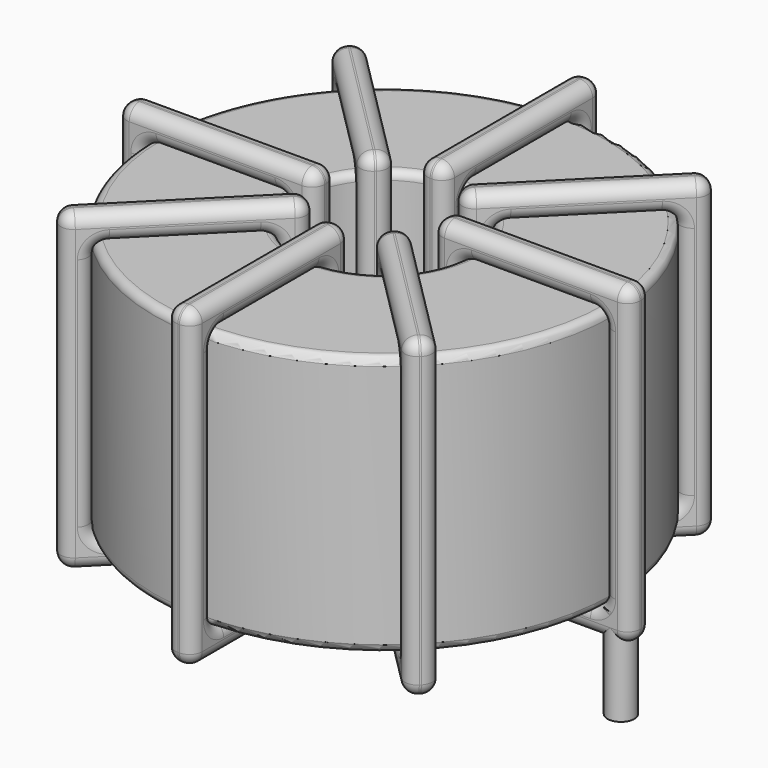
from build123d import *

# Parameters (mm, degrees)
SKETCH001_R       = 0.85
PAD001_DEPTH      = 0.85
PAD001_DEPTH_BACK = 5.2
SKETCH_R          = 14.55
SKETCH_R_2        = 5.416667
PAD_DEPTH         = 16.5
FILLET_R          = 0.5
SKETCH003_W       = 12.533333
SKETCH003_H       = 19.9
SKETCH003_W_2     = 9.133333
SKETCH003_H_2     = 16.5
PAD002_DEPTH      = 0.85
FILLET001_R       = 0.799
SKETCH004_W       = 12.533333
SKETCH004_H       = 19.9
SKETCH004_W_2     = 9.133333
SKETCH004_H_2     = 16.5
PAD003_DEPTH      = 0.85
FILLET002_R       = 0.799
SKETCH005_W       = 12.533333
SKETCH005_H       = 19.9
SKETCH005_W_2     = 9.133333
SKETCH005_H_2     = 16.5
PAD004_DEPTH      = 0.85
FILLET003_R       = 0.799
SKETCH006_W       = 12.533333
SKETCH006_H       = 19.9
SKETCH006_W_2     = 9.133333
SKETCH006_H_2     = 16.5
PAD005_DEPTH      = 0.85
FILLET004_R       = 0.799


with BuildPart() as pad001:
    # Sketch001 → Pad001 (new body, two sides)
    with BuildSketch(Plane.XY.offset(1.35)) as pad001_sk:
        Circle(SKETCH001_R)
        with Locations((30, 0)):
            Circle(SKETCH001_R)
    extrude(amount=PAD001_DEPTH)
    extrude(pad001_sk.sketch, amount=-PAD001_DEPTH_BACK)


with BuildPart() as fillet_body:
    # Sketch → Pad (new body)
    with BuildSketch(Plane.XY.offset(2.2)):
        with Locations((15, 0)):
            Circle(SKETCH_R)
        with Locations((15, 0)):
            Circle(SKETCH_R_2, mode=Mode.SUBTRACT)
    extrude(amount=PAD_DEPTH)

    # Fillet
    fillet_edges = [fillet_body.edges().sort_by_distance(p)[0] for p in [
        (9.583333, 0, 18.7),
        (0.45, 0, 18.7),
        (0.45, 0, 2.2),
    ]]
    fillet(fillet_edges, radius=FILLET_R)


with BuildPart() as fillet001:
    # Sketch003 → Pad002 (new body, symmetric)
    with BuildSketch(Plane(origin=(15, 0, 0), x_dir=(1, 0, 0), z_dir=(0, -1, 0))):
        with Locations((-9.983334, 10.45)):
            Rectangle(SKETCH003_W, SKETCH003_H)
        with Locations((-9.983333, 10.45)):
            Rectangle(SKETCH003_W_2, SKETCH003_H_2, mode=Mode.SUBTRACT)
        with Locations((9.983334, 10.45)):
            Rectangle(SKETCH003_W, SKETCH003_H)
        with Locations((9.983333, 10.45)):
            Rectangle(SKETCH003_W_2, SKETCH003_H_2, mode=Mode.SUBTRACT)
    extrude(amount=PAD002_DEPTH, both=True)

    # Fillet001
    fillet001_edges = [fillet001.edges().sort_by_distance(p)[0] for p in [
        (9.583333, 0, 18.7),
        (9.583333, 0, 2.2),
        (9.583333, 0.85, 10.45),
        (9.583333, -0.85, 10.45),
        (-1.25, 0, 20.4),
        (11.283333, 0, 20.4),
        (5.016667, 0.85, 20.4),
        (5.016667, -0.85, 20.4),
        (11.283333, 0, 0.5),
        (11.283333, 0.85, 10.45),
        (11.283333, -0.85, 10.45),
        (20.416667, 0, 18.7),
        (29.55, 0, 18.7),
        (24.983333, 0.85, 18.7),
        (24.983333, -0.85, 18.7),
        (29.55, 0, 2.2),
        (29.55, 0.85, 10.45),
        (29.55, -0.85, 10.45),
        (18.716667, 0, 20.4),
        (31.25, 0, 20.4),
        (24.983333, 0.85, 20.4),
        (24.983333, -0.85, 20.4),
        (31.25, 0, 0.5),
        (31.25, 0.85, 10.45),
        (31.25, -0.85, 10.45),
        (0.45, 0, 18.7),
        (5.016667, 0.85, 18.7),
        (5.016667, -0.85, 18.7),
        (20.416667, 0, 2.2),
        (20.416667, 0.85, 10.45),
        (20.416667, -0.85, 10.45),
        (24.983333, 0.85, 2.2),
        (24.983333, -0.85, 2.2),
        (18.716667, 0, 0.5),
        (24.983333, 0.85, 0.5),
        (24.983333, -0.85, 0.5),
        (18.716667, 0.85, 10.45),
        (18.716667, -0.85, 10.45),
        (-1.25, 0, 0.5),
        (5.016667, 0.85, 0.5),
        (5.016667, -0.85, 0.5),
        (-1.25, 0.85, 10.45),
        (-1.25, -0.85, 10.45),
        (0.45, 0, 2.2),
        (0.45, 0.85, 10.45),
        (0.45, -0.85, 10.45),
        (5.016667, 0.85, 2.2),
        (5.016667, -0.85, 2.2),
    ]]
    fillet(fillet001_edges, radius=FILLET001_R)


with BuildPart() as fillet002:
    # Sketch004 → Pad003 (new body, symmetric)
    with BuildSketch(Plane(origin=(15, 0, 0), x_dir=(0.707107, 0.707107, 0), z_dir=(0.707107, -0.707107, 0))):
        with Locations((-9.983334, 10.45)):
            Rectangle(SKETCH004_W, SKETCH004_H)
        with Locations((-9.983333, 10.45)):
            Rectangle(SKETCH004_W_2, SKETCH004_H_2, mode=Mode.SUBTRACT)
        with Locations((9.983334, 10.45)):
            Rectangle(SKETCH004_W, SKETCH004_H)
        with Locations((9.983333, 10.45)):
            Rectangle(SKETCH004_W_2, SKETCH004_H_2, mode=Mode.SUBTRACT)
    extrude(amount=PAD003_DEPTH, both=True)

    # Fillet002
    fillet002_edges = [fillet002.edges().sort_by_distance(p)[0] for p in [
        (11.169838, -3.830162, 18.7),
        (11.169838, -3.830162, 2.2),
        (10.568798, -3.229121, 10.45),
        (11.770879, -4.431202, 10.45),
        (3.509515, -11.490485, 20.4),
        (3.509515, -11.490485, 0.5),
        (2.908474, -10.889444, 10.45),
        (4.110556, -12.091526, 10.45),
        (12.37192, -2.62808, 20.4),
        (7.339677, -6.458242, 0.5),
        (8.541758, -7.660323, 0.5),
        (18.830162, 3.830162, 2.2),
        (18.830162, 3.830162, 18.7),
        (18.229121, 4.431202, 10.45),
        (19.431202, 3.229121, 10.45),
        (25.288404, 10.288404, 2.2),
        (21.458242, 7.660323, 2.2),
        (22.660323, 6.458242, 2.2),
        (17.62808, 2.62808, 0.5),
        (17.62808, 2.62808, 20.4),
        (17.027039, 3.229121, 10.45),
        (18.229121, 2.027039, 10.45),
        (26.490485, 11.490485, 0.5),
        (21.458242, 7.660323, 0.5),
        (22.660323, 6.458242, 0.5),
        (4.711596, -10.288404, 18.7),
        (7.339677, -6.458242, 18.7),
        (8.541758, -7.660323, 18.7),
        (25.288404, 10.288404, 18.7),
        (21.458242, 7.660323, 18.7),
        (22.660323, 6.458242, 18.7),
        (24.687363, 10.889444, 10.45),
        (25.889444, 9.687363, 10.45),
        (26.490485, 11.490485, 20.4),
        (25.889444, 12.091526, 10.45),
        (27.091526, 10.889444, 10.45),
        (21.458242, 7.660323, 20.4),
        (22.660323, 6.458242, 20.4),
        (12.37192, -2.62808, 0.5),
        (11.770879, -2.027039, 10.45),
        (12.972961, -3.229121, 10.45),
        (7.339677, -6.458242, 20.4),
        (8.541758, -7.660323, 20.4),
        (4.711596, -10.288404, 2.2),
        (4.110556, -9.687363, 10.45),
        (5.312637, -10.889444, 10.45),
        (7.339677, -6.458242, 2.2),
        (8.541758, -7.660323, 2.2),
    ]]
    fillet(fillet002_edges, radius=FILLET002_R)


with BuildPart() as fillet003:
    # Sketch005 → Pad004 (new body, symmetric)
    with BuildSketch(Plane(origin=(15, 0, 0), x_dir=(0.707107, -0.707107, 0), z_dir=(-0.707107, -0.707107, 0))):
        with Locations((-9.983334, 10.45)):
            Rectangle(SKETCH005_W, SKETCH005_H)
        with Locations((-9.983333, 10.45)):
            Rectangle(SKETCH005_W_2, SKETCH005_H_2, mode=Mode.SUBTRACT)
        with Locations((9.983334, 10.45)):
            Rectangle(SKETCH005_W, SKETCH005_H)
        with Locations((9.983333, 10.45)):
            Rectangle(SKETCH005_W_2, SKETCH005_H_2, mode=Mode.SUBTRACT)
    extrude(amount=PAD004_DEPTH, both=True)

    # Fillet003
    fillet003_edges = [fillet003.edges().sort_by_distance(p)[0] for p in [
        (11.169838, 3.830162, 18.7),
        (11.169838, 3.830162, 2.2),
        (11.770879, 4.431202, 10.45),
        (10.568798, 3.229121, 10.45),
        (3.509515, 11.490485, 20.4),
        (12.37192, 2.62808, 20.4),
        (8.541758, 7.660323, 20.4),
        (7.339677, 6.458242, 20.4),
        (12.37192, 2.62808, 0.5),
        (12.972961, 3.229121, 10.45),
        (11.770879, 2.027039, 10.45),
        (18.830162, -3.830162, 18.7),
        (25.288404, -10.288404, 18.7),
        (22.660323, -6.458242, 18.7),
        (21.458242, -7.660323, 18.7),
        (25.288404, -10.288404, 2.2),
        (25.889444, -9.687363, 10.45),
        (24.687363, -10.889444, 10.45),
        (17.62808, -2.62808, 20.4),
        (26.490485, -11.490485, 20.4),
        (22.660323, -6.458242, 20.4),
        (21.458242, -7.660323, 20.4),
        (26.490485, -11.490485, 0.5),
        (27.091526, -10.889444, 10.45),
        (25.889444, -12.091526, 10.45),
        (4.711596, 10.288404, 18.7),
        (8.541758, 7.660323, 18.7),
        (7.339677, 6.458242, 18.7),
        (18.830162, -3.830162, 2.2),
        (19.431202, -3.229121, 10.45),
        (18.229121, -4.431202, 10.45),
        (22.660323, -6.458242, 2.2),
        (21.458242, -7.660323, 2.2),
        (17.62808, -2.62808, 0.5),
        (22.660323, -6.458242, 0.5),
        (21.458242, -7.660323, 0.5),
        (18.229121, -2.027039, 10.45),
        (17.027039, -3.229121, 10.45),
        (3.509515, 11.490485, 0.5),
        (8.541758, 7.660323, 0.5),
        (7.339677, 6.458242, 0.5),
        (4.110556, 12.091526, 10.45),
        (2.908474, 10.889444, 10.45),
        (4.711596, 10.288404, 2.2),
        (5.312637, 10.889444, 10.45),
        (4.110556, 9.687363, 10.45),
        (8.541758, 7.660323, 2.2),
        (7.339677, 6.458242, 2.2),
    ]]
    fillet(fillet003_edges, radius=FILLET003_R)


with BuildPart() as fillet004:
    # Sketch006 → Pad005 (new body, symmetric)
    with BuildSketch(Plane.YZ.offset(15)):
        with Locations((-9.983334, 10.45)):
            Rectangle(SKETCH006_W, SKETCH006_H)
        with Locations((-9.983333, 10.45)):
            Rectangle(SKETCH006_W_2, SKETCH006_H_2, mode=Mode.SUBTRACT)
        with Locations((9.983334, 10.45)):
            Rectangle(SKETCH006_W, SKETCH006_H)
        with Locations((9.983333, 10.45)):
            Rectangle(SKETCH006_W_2, SKETCH006_H_2, mode=Mode.SUBTRACT)
    extrude(amount=PAD005_DEPTH, both=True)

    # Fillet004
    fillet004_edges = [fillet004.edges().sort_by_distance(p)[0] for p in [
        (15, -5.416667, 18.7),
        (15, -5.416667, 2.2),
        (14.15, -5.416667, 10.45),
        (15.85, -5.416667, 10.45),
        (15, -16.25, 20.4),
        (15, -3.716667, 20.4),
        (14.15, -9.983333, 20.4),
        (15.85, -9.983333, 20.4),
        (15, -3.716667, 0.5),
        (14.15, -3.716667, 10.45),
        (15.85, -3.716667, 10.45),
        (15, 5.416667, 18.7),
        (15, 14.55, 18.7),
        (14.15, 9.983333, 18.7),
        (15.85, 9.983333, 18.7),
        (15, 14.55, 2.2),
        (14.15, 14.55, 10.45),
        (15.85, 14.55, 10.45),
        (15, 3.716667, 20.4),
        (15, 16.25, 20.4),
        (14.15, 9.983333, 20.4),
        (15.85, 9.983333, 20.4),
        (15, 16.25, 0.5),
        (14.15, 16.25, 10.45),
        (15.85, 16.25, 10.45),
        (15, -14.55, 18.7),
        (14.15, -9.983333, 18.7),
        (15.85, -9.983333, 18.7),
        (15, 5.416667, 2.2),
        (14.15, 5.416667, 10.45),
        (15.85, 5.416667, 10.45),
        (14.15, 9.983333, 2.2),
        (15.85, 9.983333, 2.2),
        (15, 3.716667, 0.5),
        (14.15, 9.983333, 0.5),
        (15.85, 9.983333, 0.5),
        (14.15, 3.716667, 10.45),
        (15.85, 3.716667, 10.45),
        (15, -16.25, 0.5),
        (14.15, -9.983333, 0.5),
        (15.85, -9.983333, 0.5),
        (14.15, -16.25, 10.45),
        (15.85, -16.25, 10.45),
        (15, -14.55, 2.2),
        (14.15, -14.55, 10.45),
        (15.85, -14.55, 10.45),
        (14.15, -9.983333, 2.2),
        (15.85, -9.983333, 2.2),
    ]]
    fillet(fillet004_edges, radius=FILLET004_R)


solid = Compound([pad001.part, fillet_body.part, fillet001.part, fillet002.part, fillet003.part, fillet004.part])
